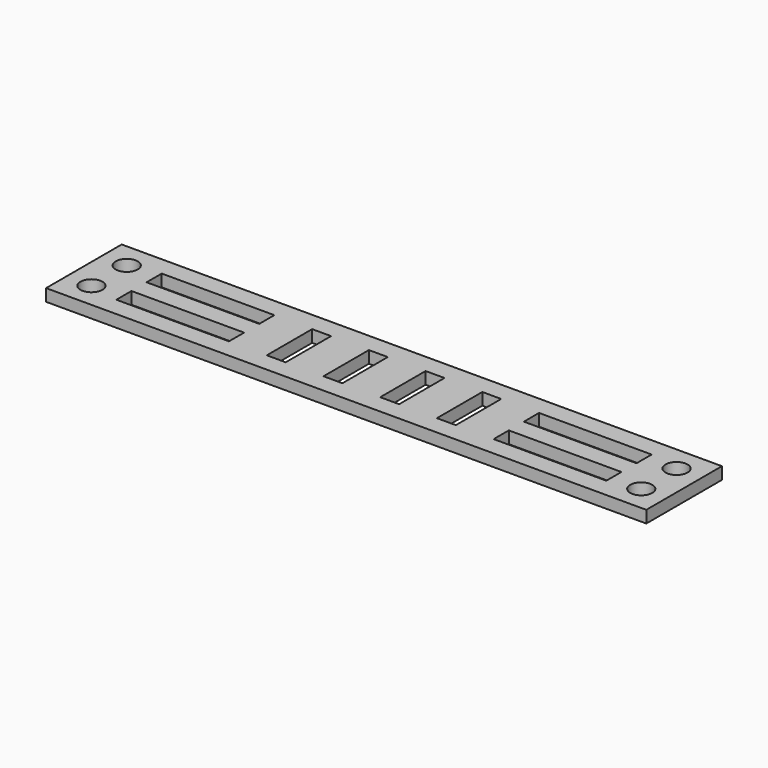
from build123d import *

# Parameters (mm, degrees)
F0_W     = 95.25
F0_H     = 15
F0_R     = 1.75
F0_W_2   = 17.875
F0_H_2   = 3
F0_W_3   = 3
F0_H_3   = 9
F1_DEPTH = 1.92


with BuildPart() as f1:
    # F0 (on Top) → F1 (new body)
    with BuildSketch(Plane.XY):
        with Locations((47.625, 7.5)):
            Rectangle(F0_W, F0_H)
        with Locations((4, 4)):
            Circle(F0_R, mode=Mode.SUBTRACT)
        with Locations((17.6875, 4.5)):
            Rectangle(F0_W_2, F0_H_2, mode=Mode.SUBTRACT)
        with Locations((77.5625, 4.5)):
            Rectangle(F0_W_2, F0_H_2, mode=Mode.SUBTRACT)
        with Locations((91.25, 4)):
            Circle(F0_R, mode=Mode.SUBTRACT)
        with Locations((4, 11)):
            Circle(F0_R, mode=Mode.SUBTRACT)
        with Locations((17.6875, 10.5)):
            Rectangle(F0_W_2, F0_H_2, mode=Mode.SUBTRACT)
        with Locations((34.125, 7.5)):
            Rectangle(F0_W_3, F0_H_3, mode=Mode.SUBTRACT)
        with Locations((43.125, 7.5)):
            Rectangle(F0_W_3, F0_H_3, mode=Mode.SUBTRACT)
        with Locations((52.125, 7.5)):
            Rectangle(F0_W_3, F0_H_3, mode=Mode.SUBTRACT)
        with Locations((61.125, 7.5)):
            Rectangle(F0_W_3, F0_H_3, mode=Mode.SUBTRACT)
        with Locations((77.5625, 10.5)):
            Rectangle(F0_W_2, F0_H_2, mode=Mode.SUBTRACT)
        with Locations((91.25, 11)):
            Circle(F0_R, mode=Mode.SUBTRACT)
    extrude(amount=F1_DEPTH)


solid = f1.part
